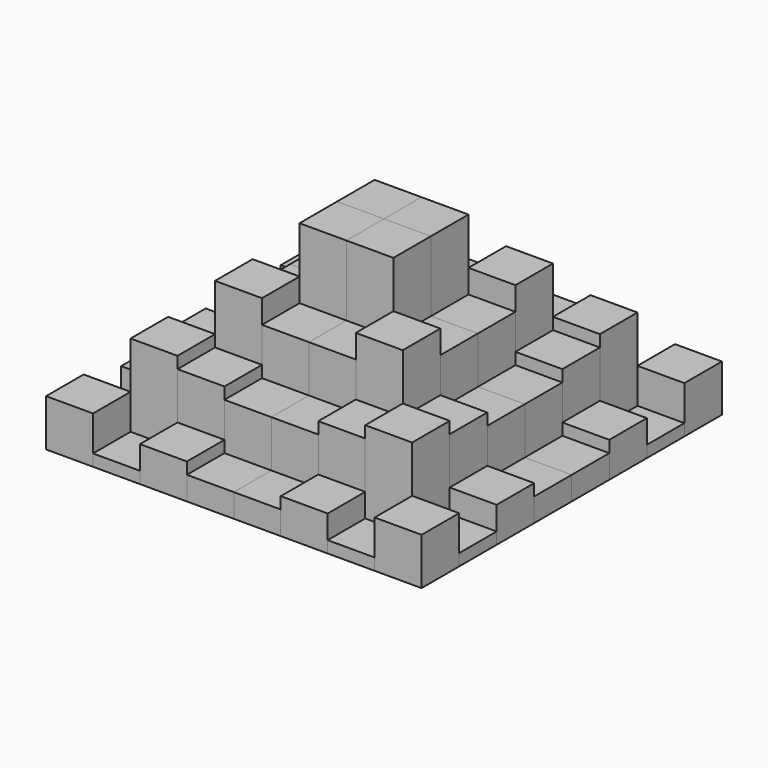
from build123d import *

# Parameters (mm, degrees)
F0_W      = 25.4
F0_H      = 25.4
F1_DEPTH  = 25.4
F2_DEPTH  = 50.8
F3_DEPTH  = 76.2
F4_DEPTH  = 101.6
F5_DEPTH  = 101.6
F6_DEPTH  = 12.7
F7_DEPTH  = 12.7
F8_DEPTH  = 38.1
F9_DEPTH  = 38.1
F10_DEPTH = 63.5
F11_DEPTH = 63.5
F12_DEPTH = 19.05
F13_DEPTH = 44.45
F14_DEPTH = 6.35


with BuildPart() as f1:
    # F0 (on Top) → F1 (new body)
    with BuildSketch(Plane.XY):
        with Locations((-88.9, 88.9)):
            Rectangle(F0_W, F0_H)
    extrude(amount=F1_DEPTH)


with BuildPart() as f1b:
    # F0 (on Top) → F1, piece 2 (new body)
    with BuildSketch(Plane.XY):
        with Locations((88.9, 88.9)):
            Rectangle(F0_W, F0_H)
    extrude(amount=F1_DEPTH)


with BuildPart() as f1c:
    # F0 (on Top) → F1, piece 3 (new body)
    with BuildSketch(Plane.XY):
        with Locations((88.9, -88.9)):
            Rectangle(F0_W, F0_H)
    extrude(amount=F1_DEPTH)


with BuildPart() as f1d:
    # F0 (on Top) → F1, piece 4 (new body)
    with BuildSketch(Plane.XY):
        with Locations((-88.9, -88.9)):
            Rectangle(F0_W, F0_H)
    extrude(amount=F1_DEPTH)


with BuildPart() as f2:
    # F0 (on Top) → F2 (new body)
    with BuildSketch(Plane.XY):
        with Locations((-63.5, -63.5)):
            Rectangle(F0_W, F0_H)
    extrude(amount=F2_DEPTH)


with BuildPart() as f2b:
    # F0 (on Top) → F2, piece 2 (new body)
    with BuildSketch(Plane.XY):
        with Locations((-63.5, 63.5)):
            Rectangle(F0_W, F0_H)
    extrude(amount=F2_DEPTH)


with BuildPart() as f2c:
    # F0 (on Top) → F2, piece 3 (new body)
    with BuildSketch(Plane.XY):
        with Locations((63.5, 63.5)):
            Rectangle(F0_W, F0_H)
    extrude(amount=F2_DEPTH)


with BuildPart() as f2d:
    # F0 (on Top) → F2, piece 4 (new body)
    with BuildSketch(Plane.XY):
        with Locations((63.5, -63.5)):
            Rectangle(F0_W, F0_H)
    extrude(amount=F2_DEPTH)


with BuildPart() as f3:
    # F0 (on Top) → F3 (new body)
    with BuildSketch(Plane.XY):
        with Locations((-38.1, -38.1)):
            Rectangle(F0_W, F0_H)
    extrude(amount=F3_DEPTH)


with BuildPart() as f3b:
    # F0 (on Top) → F3, piece 2 (new body)
    with BuildSketch(Plane.XY):
        with Locations((-38.1, 38.1)):
            Rectangle(F0_W, F0_H)
    extrude(amount=F3_DEPTH)


with BuildPart() as f3c:
    # F0 (on Top) → F3, piece 3 (new body)
    with BuildSketch(Plane.XY):
        with Locations((38.1, 38.1)):
            Rectangle(F0_W, F0_H)
    extrude(amount=F3_DEPTH)


with BuildPart() as f3d:
    # F0 (on Top) → F3, piece 4 (new body)
    with BuildSketch(Plane.XY):
        with Locations((38.1, -38.1)):
            Rectangle(F0_W, F0_H)
    extrude(amount=F3_DEPTH)


with BuildPart() as f4:
    # F0 (on Top) → F4 (new body)
    with BuildSketch(Plane.XY):
        with Locations((-12.7, 12.7)):
            Rectangle(F0_W, F0_H)
    extrude(amount=F4_DEPTH)


with BuildPart() as f4b:
    # F0 (on Top) → F4, piece 2 (new body)
    with BuildSketch(Plane.XY):
        with Locations((12.7, -12.7)):
            Rectangle(F0_W, F0_H)
    extrude(amount=F4_DEPTH)


with BuildPart() as f5:
    # F0 (on Top) → F5 (new body)
    with BuildSketch(Plane.XY):
        with Locations((12.7, 12.7)):
            Rectangle(F0_W, F0_H)
    extrude(amount=F5_DEPTH)


with BuildPart() as f5b:
    # F0 (on Top) → F5, piece 2 (new body)
    with BuildSketch(Plane.XY):
        with Locations((-12.7, -12.7)):
            Rectangle(F0_W, F0_H)
    extrude(amount=F5_DEPTH)


with BuildPart() as f6:
    # F0 (on Top) → F6 (new body)
    with BuildSketch(Plane.XY):
        with Locations((-88.9, 12.7)):
            Rectangle(F0_W, F0_H)
    extrude(amount=F6_DEPTH)


with BuildPart() as f6b:
    # F0 (on Top) → F6, piece 2 (new body)
    with BuildSketch(Plane.XY):
        with Locations((-12.7, -88.9)):
            Rectangle(F0_W, F0_H)
    extrude(amount=F6_DEPTH)


with BuildPart() as f6c:
    # F0 (on Top) → F6, piece 3 (new body)
    with BuildSketch(Plane.XY):
        with Locations((88.9, -12.7)):
            Rectangle(F0_W, F0_H)
    extrude(amount=F6_DEPTH)


with BuildPart() as f6d:
    # F0 (on Top) → F6, piece 4 (new body)
    with BuildSketch(Plane.XY):
        with Locations((12.7, 88.9)):
            Rectangle(F0_W, F0_H)
    extrude(amount=F6_DEPTH)


with BuildPart() as f7:
    # F0 (on Top) → F7 (new body)
    with BuildSketch(Plane.XY):
        with Locations((-12.7, 88.9)):
            Rectangle(F0_W, F0_H)
    extrude(amount=F7_DEPTH)


with BuildPart() as f7b:
    # F0 (on Top) → F7, piece 2 (new body)
    with BuildSketch(Plane.XY):
        with Locations((88.9, 12.7)):
            Rectangle(F0_W, F0_H)
    extrude(amount=F7_DEPTH)


with BuildPart() as f7c:
    # F0 (on Top) → F7, piece 3 (new body)
    with BuildSketch(Plane.XY):
        with Locations((12.7, -88.9)):
            Rectangle(F0_W, F0_H)
    extrude(amount=F7_DEPTH)


with BuildPart() as f7d:
    # F0 (on Top) → F7, piece 4 (new body)
    with BuildSketch(Plane.XY):
        with Locations((-88.9, -12.7)):
            Rectangle(F0_W, F0_H)
    extrude(amount=F7_DEPTH)


with BuildPart() as f8:
    # F0 (on Top) → F8 (new body)
    with BuildSketch(Plane.XY):
        with Locations((-63.5, -12.7)):
            Rectangle(F0_W, F0_H)
    extrude(amount=F8_DEPTH)


with BuildPart() as f8b:
    # F0 (on Top) → F8, piece 2 (new body)
    with BuildSketch(Plane.XY):
        with Locations((-12.7, -63.5)):
            Rectangle(F0_W, F0_H)
    extrude(amount=F8_DEPTH)


with BuildPart() as f8c:
    # F0 (on Top) → F8, piece 3 (new body)
    with BuildSketch(Plane.XY):
        with Locations((63.5, -12.7)):
            Rectangle(F0_W, F0_H)
    extrude(amount=F8_DEPTH)


with BuildPart() as f8d:
    # F0 (on Top) → F8, piece 4 (new body)
    with BuildSketch(Plane.XY):
        with Locations((12.7, 63.5)):
            Rectangle(F0_W, F0_H)
    extrude(amount=F8_DEPTH)


with BuildPart() as f9:
    # F0 (on Top) → F9 (new body)
    with BuildSketch(Plane.XY):
        with Locations((-63.5, 12.7)):
            Rectangle(F0_W, F0_H)
    extrude(amount=F9_DEPTH)


with BuildPart() as f9b:
    # F0 (on Top) → F9, piece 2 (new body)
    with BuildSketch(Plane.XY):
        with Locations((12.7, -63.5)):
            Rectangle(F0_W, F0_H)
    extrude(amount=F9_DEPTH)


with BuildPart() as f9c:
    # F0 (on Top) → F9, piece 3 (new body)
    with BuildSketch(Plane.XY):
        with Locations((63.5, 12.7)):
            Rectangle(F0_W, F0_H)
    extrude(amount=F9_DEPTH)


with BuildPart() as f9d:
    # F0 (on Top) → F9, piece 4 (new body)
    with BuildSketch(Plane.XY):
        with Locations((-12.7, 63.5)):
            Rectangle(F0_W, F0_H)
    extrude(amount=F9_DEPTH)


with BuildPart() as f10:
    # F0 (on Top) → F10 (new body)
    with BuildSketch(Plane.XY):
        with Locations((-38.1, -12.7)):
            Rectangle(F0_W, F0_H)
    extrude(amount=F10_DEPTH)


with BuildPart() as f10b:
    # F0 (on Top) → F10, piece 2 (new body)
    with BuildSketch(Plane.XY):
        with Locations((12.7, -38.1)):
            Rectangle(F0_W, F0_H)
    extrude(amount=F10_DEPTH)


with BuildPart() as f10c:
    # F0 (on Top) → F10, piece 3 (new body)
    with BuildSketch(Plane.XY):
        with Locations((38.1, 12.7)):
            Rectangle(F0_W, F0_H)
    extrude(amount=F10_DEPTH)


with BuildPart() as f10d:
    # F0 (on Top) → F10, piece 4 (new body)
    with BuildSketch(Plane.XY):
        with Locations((-12.7, 38.1)):
            Rectangle(F0_W, F0_H)
    extrude(amount=F10_DEPTH)


with BuildPart() as f11:
    # F0 (on Top) → F11 (new body)
    with BuildSketch(Plane.XY):
        with Locations((-38.1, 12.7)):
            Rectangle(F0_W, F0_H)
    extrude(amount=F11_DEPTH)


with BuildPart() as f11b:
    # F0 (on Top) → F11, piece 2 (new body)
    with BuildSketch(Plane.XY):
        with Locations((-12.7, -38.1)):
            Rectangle(F0_W, F0_H)
    extrude(amount=F11_DEPTH)


with BuildPart() as f11c:
    # F0 (on Top) → F11, piece 3 (new body)
    with BuildSketch(Plane.XY):
        with Locations((38.1, -12.7)):
            Rectangle(F0_W, F0_H)
    extrude(amount=F11_DEPTH)


with BuildPart() as f11d:
    # F0 (on Top) → F11, piece 4 (new body)
    with BuildSketch(Plane.XY):
        with Locations((12.7, 38.1)):
            Rectangle(F0_W, F0_H)
    extrude(amount=F11_DEPTH)


with BuildPart() as f12:
    # F0 (on Top) → F12 (new body)
    with BuildSketch(Plane.XY):
        with Locations((-38.1, -88.9)):
            Rectangle(F0_W, F0_H)
    extrude(amount=F12_DEPTH)


with BuildPart() as f12b:
    # F0 (on Top) → F12, piece 2 (new body)
    with BuildSketch(Plane.XY):
        with Locations((38.1, -88.9)):
            Rectangle(F0_W, F0_H)
    extrude(amount=F12_DEPTH)


with BuildPart() as f12c:
    # F0 (on Top) → F12, piece 3 (new body)
    with BuildSketch(Plane.XY):
        with Locations((88.9, -38.1)):
            Rectangle(F0_W, F0_H)
    extrude(amount=F12_DEPTH)


with BuildPart() as f12d:
    # F0 (on Top) → F12, piece 4 (new body)
    with BuildSketch(Plane.XY):
        with Locations((88.9, 38.1)):
            Rectangle(F0_W, F0_H)
    extrude(amount=F12_DEPTH)


with BuildPart() as f12e:
    # F0 (on Top) → F12, piece 5 (new body)
    with BuildSketch(Plane.XY):
        with Locations((38.1, 88.9)):
            Rectangle(F0_W, F0_H)
    extrude(amount=F12_DEPTH)


with BuildPart() as f12f:
    # F0 (on Top) → F12, piece 6 (new body)
    with BuildSketch(Plane.XY):
        with Locations((-38.1, 88.9)):
            Rectangle(F0_W, F0_H)
    extrude(amount=F12_DEPTH)


with BuildPart() as f12g:
    # F0 (on Top) → F12, piece 7 (new body)
    with BuildSketch(Plane.XY):
        with Locations((-88.9, 38.1)):
            Rectangle(F0_W, F0_H)
    extrude(amount=F12_DEPTH)


with BuildPart() as f12h:
    # F0 (on Top) → F12, piece 8 (new body)
    with BuildSketch(Plane.XY):
        with Locations((-88.9, -38.1)):
            Rectangle(F0_W, F0_H)
    extrude(amount=F12_DEPTH)


with BuildPart() as f13:
    # F0 (on Top) → F13 (new body)
    with BuildSketch(Plane.XY):
        with Locations((-63.5, 38.1)):
            Rectangle(F0_W, F0_H)
    extrude(amount=F13_DEPTH)


with BuildPart() as f13b:
    # F0 (on Top) → F13, piece 2 (new body)
    with BuildSketch(Plane.XY):
        with Locations((-63.5, -38.1)):
            Rectangle(F0_W, F0_H)
    extrude(amount=F13_DEPTH)


with BuildPart() as f13c:
    # F0 (on Top) → F13, piece 3 (new body)
    with BuildSketch(Plane.XY):
        with Locations((-38.1, -63.5)):
            Rectangle(F0_W, F0_H)
    extrude(amount=F13_DEPTH)


with BuildPart() as f13d:
    # F0 (on Top) → F13, piece 4 (new body)
    with BuildSketch(Plane.XY):
        with Locations((38.1, -63.5)):
            Rectangle(F0_W, F0_H)
    extrude(amount=F13_DEPTH)


with BuildPart() as f13e:
    # F0 (on Top) → F13, piece 5 (new body)
    with BuildSketch(Plane.XY):
        with Locations((63.5, -38.1)):
            Rectangle(F0_W, F0_H)
    extrude(amount=F13_DEPTH)


with BuildPart() as f13f:
    # F0 (on Top) → F13, piece 6 (new body)
    with BuildSketch(Plane.XY):
        with Locations((63.5, 38.1)):
            Rectangle(F0_W, F0_H)
    extrude(amount=F13_DEPTH)


with BuildPart() as f13g:
    # F0 (on Top) → F13, piece 7 (new body)
    with BuildSketch(Plane.XY):
        with Locations((38.1, 63.5)):
            Rectangle(F0_W, F0_H)
    extrude(amount=F13_DEPTH)


with BuildPart() as f13h:
    # F0 (on Top) → F13, piece 8 (new body)
    with BuildSketch(Plane.XY):
        with Locations((-38.1, 63.5)):
            Rectangle(F0_W, F0_H)
    extrude(amount=F13_DEPTH)


with BuildPart() as f14:
    # F0 (on Top) → F14 (new body)
    with BuildSketch(Plane.XY):
        with Locations((-88.9, 63.5)):
            Rectangle(F0_W, F0_H)
    extrude(amount=F14_DEPTH)


with BuildPart() as f14b:
    # F0 (on Top) → F14, piece 2 (new body)
    with BuildSketch(Plane.XY):
        with Locations((-88.9, -63.5)):
            Rectangle(F0_W, F0_H)
    extrude(amount=F14_DEPTH)


with BuildPart() as f14c:
    # F0 (on Top) → F14, piece 3 (new body)
    with BuildSketch(Plane.XY):
        with Locations((-63.5, 88.9)):
            Rectangle(F0_W, F0_H)
    extrude(amount=F14_DEPTH)


with BuildPart() as f14d:
    # F0 (on Top) → F14, piece 4 (new body)
    with BuildSketch(Plane.XY):
        with Locations((63.5, 88.9)):
            Rectangle(F0_W, F0_H)
    extrude(amount=F14_DEPTH)


with BuildPart() as f14e:
    # F0 (on Top) → F14, piece 5 (new body)
    with BuildSketch(Plane.XY):
        with Locations((88.9, 63.5)):
            Rectangle(F0_W, F0_H)
    extrude(amount=F14_DEPTH)


with BuildPart() as f14f:
    # F0 (on Top) → F14, piece 6 (new body)
    with BuildSketch(Plane.XY):
        with Locations((88.9, -63.5)):
            Rectangle(F0_W, F0_H)
    extrude(amount=F14_DEPTH)


with BuildPart() as f14g:
    # F0 (on Top) → F14, piece 7 (new body)
    with BuildSketch(Plane.XY):
        with Locations((63.5, -88.9)):
            Rectangle(F0_W, F0_H)
    extrude(amount=F14_DEPTH)


with BuildPart() as f14h:
    # F0 (on Top) → F14, piece 8 (new body)
    with BuildSketch(Plane.XY):
        with Locations((-63.5, -88.9)):
            Rectangle(F0_W, F0_H)
    extrude(amount=F14_DEPTH)


solid = Compound([f1.part, f1b.part, f1c.part, f1d.part, f2.part, f2b.part, f2c.part, f2d.part, f3.part, f3b.part, f3c.part, f3d.part, f4.part, f4b.part, f5.part, f5b.part, f6.part, f6b.part, f6c.part, f6d.part, f7.part, f7b.part, f7c.part, f7d.part, f8.part, f8b.part, f8c.part, f8d.part, f9.part, f9b.part, f9c.part, f9d.part, f10.part, f10b.part, f10c.part, f10d.part, f11.part, f11b.part, f11c.part, f11d.part, f12.part, f12b.part, f12c.part, f12d.part, f12e.part, f12f.part, f12g.part, f12h.part, f13.part, f13b.part, f13c.part, f13d.part, f13e.part, f13f.part, f13g.part, f13h.part, f14.part, f14b.part, f14c.part, f14d.part, f14e.part, f14f.part, f14g.part, f14h.part])
